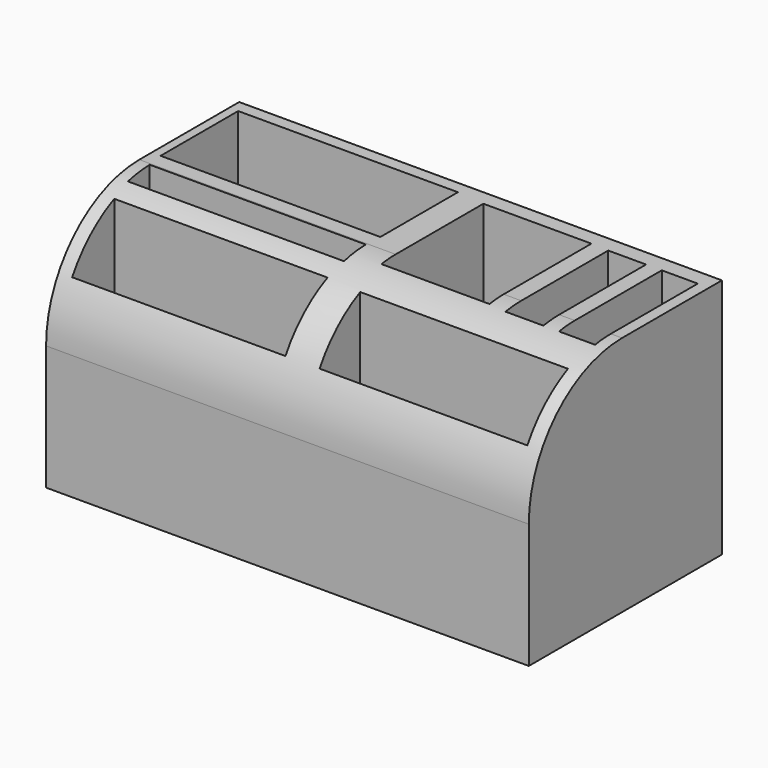
from build123d import *

# Parameters (mm, degrees)
F0_W      = 152.4
F0_H      = 76.2
F1_DEPTH  = 76.2
F2_R      = 36.7926146906
F3_W      = 69.3711452186
F3_H      = 30.6049170904
F4_DEPTH  = 69.342
F5_W      = 34.1026219539
F5_H      = 34.6188608486
F5_H_2    = 5.6047446165
F5_W_2    = 11.9504891336
F5_H_3    = 34.3273866851
F5_H_4    = 6.1876957375
F5_W_3    = 11.3675482571
F6_DEPTH  = 65.024
F7_W      = 65.5819708481
F7_H      = 16.0311469808
F8_DEPTH  = 83.82
F9_DEPTH  = 66.548
F7_W_2    = 68.2052476332
F7_H_2    = 8.5985241458
F7_W_3    = 67.330816295
F7_H_3    = 16.6140981019
F10_DEPTH = 100.076
F11_DEPTH = 87.63


with BuildPart() as f1:
    # F0 (on Top) → F1 (new body)
    with BuildSketch(Plane.XY):
        with Locations((-0.1249154925, 1.811310178)):
            Rectangle(F0_W, F0_H)
    extrude(amount=F1_DEPTH)

    # F2
    f2_edges = [f1.edges().sort_by_distance(p)[0] for p in [
        (-0.124915, -36.28869, 76.2),
    ]]
    fillet(f2_edges, radius=F2_R)

    # F3 (on face) → F4 (cut)
    with BuildSketch(Plane.XY.offset(76.2)):
        with Locations((-38.8286877424, 20.6947533879)):
            Rectangle(F3_W, F3_H)
    extrude(amount=-F4_DEPTH, mode=Mode.SUBTRACT)

    # F5 (on face) → F6 (cut)
    with BuildSketch(Plane.XY.offset(76.2)):
        with Locations((21.6524621937, 17.8133552929)):
            Rectangle(F5_W, F5_H)
        with Locations((21.6524621937, -2.2984474396)):
            Rectangle(F5_W, F5_H_2)
        with Locations((50.2170491964, 17.6676182112)):
            Rectangle(F5_W_2, F5_H_3)
        with Locations((50.2170491964, -2.5899230002)):
            Rectangle(F5_W_2, F5_H_4)
        with Locations((66.8311472982, 17.6676182112)):
            Rectangle(F5_W_3, F5_H_3)
        with Locations((66.8311472982, -2.5899230002)):
            Rectangle(F5_W_3, F5_H_4)
    extrude(amount=-F6_DEPTH, mode=Mode.SUBTRACT)

    # F7 (on Top) → F8 (join)
    with BuildSketch(Plane.XY):
        with Locations((38.8495135121, -23.3180331998)):
            Rectangle(F7_W, F7_H)
    extrude(amount=F8_DEPTH)

    # F9 (cut): a face of the model
    f9_faces = [f1.faces().sort_by_distance(p)[0] for p in [
        (38.8495135121, -23.3180331998, 83.82),
    ]]
    extrude(f9_faces, amount=-F9_DEPTH, mode=Mode.SUBTRACT)

    # F7 (on Top) → F10 (join)
    with BuildSketch(Plane.XY):
        with Locations((-38.5372140445, -4.2992620729)):
            Rectangle(F7_W_2, F7_H_2)
        with Locations((-38.3914739359, -23.0265576392)):
            Rectangle(F7_W_3, F7_H_3)
        with Locations((38.8495135121, -23.3180331998)):
            Rectangle(F7_W, F7_H)
    extrude(amount=F10_DEPTH)

    # F11 (cut): faces of the model
    f11_faces = [f1.faces().sort_by_distance(p)[0] for p in [
        (-38.3914739359, -23.0265576392, 100.076),
        (-38.5372140445, -4.2992620729, 100.076),
        (38.8495135121, -23.3180331998, 100.076),
    ]]
    extrude(f11_faces, amount=-F11_DEPTH, mode=Mode.SUBTRACT)


solid = f1.part
